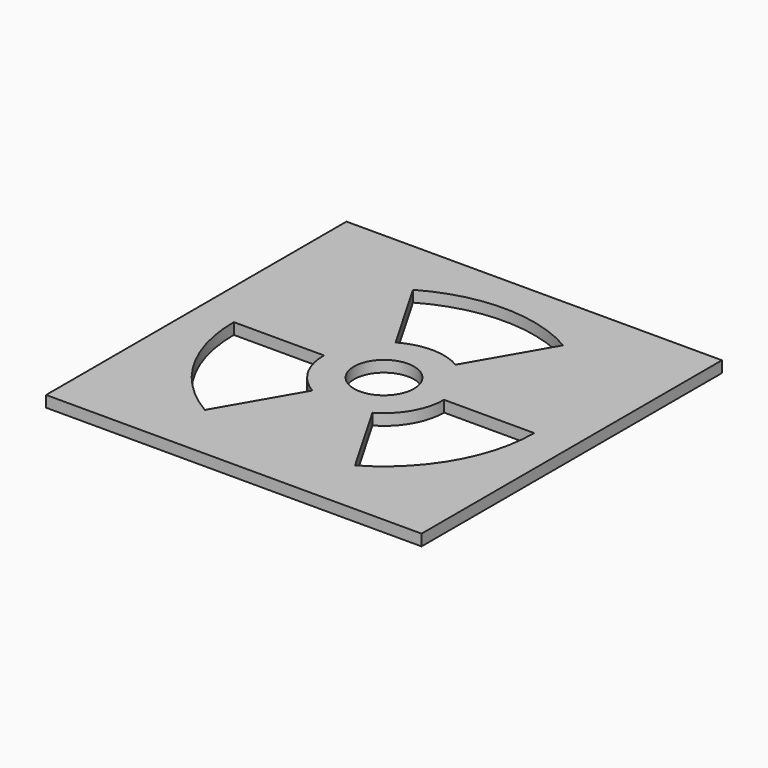
from build123d import *

# Parameters (mm, degrees)
F0_W     = 50
F0_H     = 50
F0_R     = 4
F1_DEPTH = 1.5


with BuildPart() as f1:
    # F0 (on Top) → F1 (new body)
    with BuildSketch(Plane.XY):
        Rectangle(F0_W, F0_H)
        with BuildLine():
            ThreePointArc((-10, -17.320508), (-17.320508, -10), (-20, 0))
            Line((-20, 0), (-8, 0))
            ThreePointArc((-8, 0), (-6.928203, -4), (-4, -6.928203))
            Line((-4, -6.928203), (-10, -17.320508))
        make_face(mode=Mode.SUBTRACT)
        with BuildLine():
            ThreePointArc((20, 0), (17.320508, -10), (10, -17.320508))
            Line((10, -17.320508), (4, -6.928203))
            ThreePointArc((4, -6.928203), (6.928203, -4), (8, 0))
            Line((8, 0), (20, 0))
        make_face(mode=Mode.SUBTRACT)
        Circle(F0_R, mode=Mode.SUBTRACT)
        with BuildLine():
            ThreePointArc((-10, 17.320508), (0, 20), (10, 17.320508))
            Line((10, 17.320508), (4, 6.928203))
            ThreePointArc((4, 6.928203), (0, 8), (-4, 6.928203))
            Line((-4, 6.928203), (-10, 17.320508))
        make_face(mode=Mode.SUBTRACT)
    extrude(amount=F1_DEPTH)


solid = f1.part
